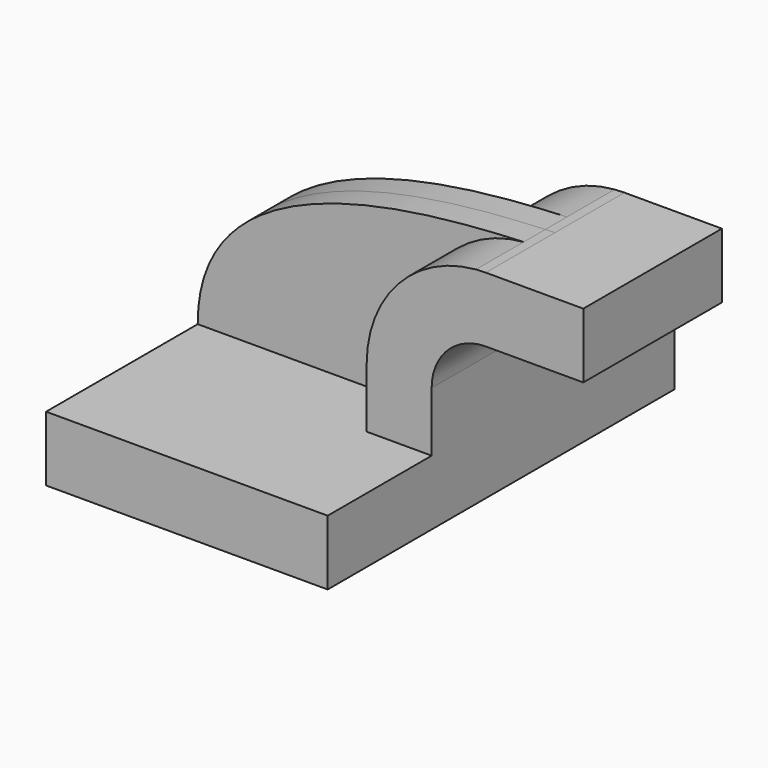
from build123d import *

# Parameters (mm, degrees)
F1_DEPTH = 63.5
F0_W     = 25.4
F0_H     = 19.05
F2_DEPTH = 25.4
F3_DEPTH = 7.9375


with BuildPart() as f1:
    # F0 (on Front) → F1 (new body, symmetric)
    with BuildSketch(Plane.XZ):
        Polygon((-30.89006, -22.216722), (-94.39006, -22.216722), (-94.39006, -41.266722), (-11.84006, -41.266722), (-11.84006, -22.216722), align=None)
    extrude(amount=F1_DEPTH, both=True)

    # F0 (on Front) → F2 (join, symmetric)
    with BuildSketch(Plane.XZ):
        with BuildLine():
            Line((-30.89006, -4.741522), (-30.89006, -22.216722))
            Line((-30.89006, -22.216722), (-11.84006, -22.216722))
            Line((-11.84006, -22.216722), (-11.84006, -4.741522))
            ThreePointArc((-11.84006, -4.741522), (-7.19038, 6.483798), (4.03494, 11.133478))
            Line((4.03494, 11.133478), (7.20994, 11.133478))
            Line((7.20994, 11.133478), (7.20994, 30.183478))
            Line((7.20994, 30.183478), (4.03494, 30.183478))
            add(Edge.make_bspline(
                [(1.159366, 30.064896), (2.145677, 30.107801), (3.105038, 30.147007), (4.03494, 30.183478)],
                knots=[108.256828, 108.256828, 108.256828, 108.256828, 111.504536, 111.504536, 111.504536, 111.504536], degree=3))
            ThreePointArc((1.159366, 30.064896), (-21.657326, 18.915678), (-30.89006, -4.741522))
        make_face()
        with Locations((19.90994, 20.658478)):
            Rectangle(F0_W, F0_H)
    extrude(amount=F2_DEPTH, both=True)

    # F0 (on Front) → F3 (join, symmetric)
    with BuildSketch(Plane.XZ):
        with BuildLine():
            add(Edge.make_bspline(
                [(-94.39006, -22.216722), (-94.538549, 23.095014), (-31.717619, 28.634726), (1.159366, 30.064896)],
                knots=[0, 0, 0, 0, 108.256828, 108.256828, 108.256828, 108.256828], degree=3))
            Line((-94.39006, -22.216722), (-30.89006, -22.216722))
            Line((-30.89006, -22.216722), (-30.89006, -4.741522))
            ThreePointArc((-30.89006, -4.741522), (-21.657326, 18.915678), (1.159366, 30.064896))
        make_face()
    extrude(amount=F3_DEPTH, both=True)


solid = f1.part
